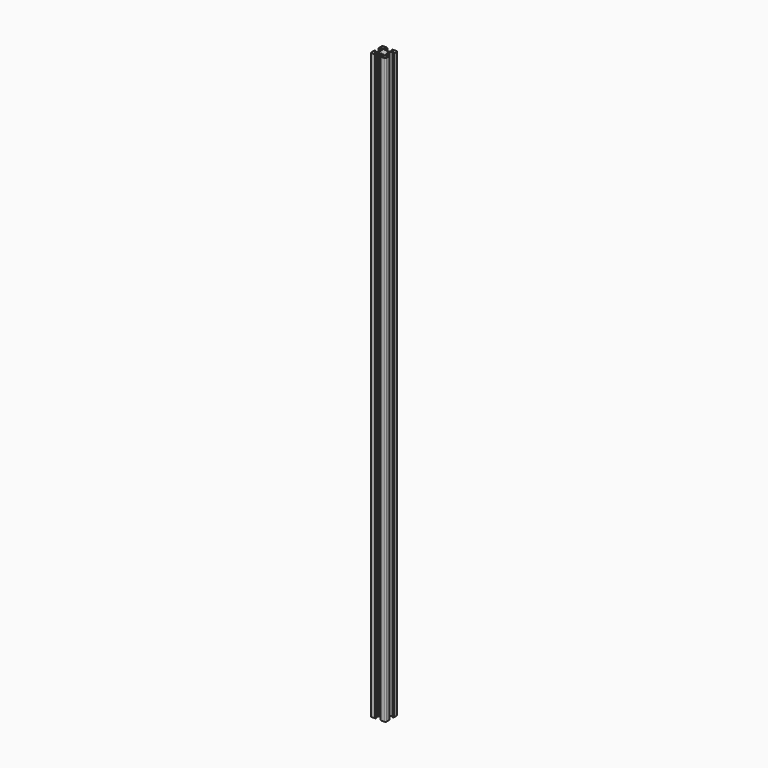
from build123d import *

# Parameters (mm, degrees)
PAD011_DEPTH    = 767.5
POCKET028_DEPTH = 767.501


with BuildPart() as pad011:
    # Sketch040 → Pad011 (new body)
    with BuildSketch(Plane(origin=(1.5, 0, 0), x_dir=(1, 0, 0), z_dir=(0, 0, 1))):
        with BuildLine():
            Line((0, 20), (4.65, 20))
            ThreePointArc((4.85, 19.8), (4.791421, 19.941421), (4.65, 20))
            Line((4.85, 19.8), (4.85, 19.5))
            Line((4.85, 19.5), (5.2, 19.5))
            ThreePointArc((5.4, 19.3), (5.341421, 19.441421), (5.2, 19.5))
            Line((5.4, 19.3), (5.4, 19))
            ThreePointArc((4.9, 18.5), (5.253553, 18.646446), (5.4, 19))
            Line((4.9, 18.5), (2.999999, 18.5))
            ThreePointArc((2.999999, 18.5), (2.646446, 18.353553), (2.499999, 18))
            Line((2.499999, 18), (2.499999, 17.267767))
            ThreePointArc((2.499999, 17.267767), (2.53806, 17.076425), (2.646446, 16.914213))
            Line((2.646446, 16.914213), (4.914213, 14.646447))
            ThreePointArc((4.914213, 14.646447), (5.076424, 14.53806), (5.267766, 14.5))
            Line((5.267766, 14.5), (7.54641, 14.5))
            ThreePointArc((7.64641, 14.473205), (7.598173, 14.493185), (7.54641, 14.5))
            Line((7.64641, 14.473205), (8.4, 14.03812))
            ThreePointArc((8.4, 14.03812), (8.5, 14.011325), (8.6, 14.03812))
            Line((8.6, 14.03812), (9.35359, 14.473205))
            ThreePointArc((9.45359, 14.5), (9.401827, 14.493185), (9.35359, 14.473205))
            Line((9.45359, 14.5), (11.732234, 14.5))
            ThreePointArc((11.732234, 14.5), (11.923576, 14.53806), (12.085787, 14.646447))
            Line((12.085787, 14.646447), (14.353554, 16.914213))
            ThreePointArc((14.353554, 16.914213), (14.46194, 17.076425), (14.500001, 17.267767))
            Line((14.500001, 17.267767), (14.500001, 18))
            ThreePointArc((14.500001, 18), (14.353554, 18.353553), (14.000001, 18.5))
            Line((14.000001, 18.5), (12.1, 18.5))
            ThreePointArc((11.6, 19), (11.746447, 18.646446), (12.1, 18.5))
            Line((11.6, 19), (11.6, 19.3))
            ThreePointArc((11.8, 19.5), (11.658579, 19.441421), (11.6, 19.3))
            Line((11.8, 19.5), (12.15, 19.5))
            Line((12.15, 19.5), (12.15, 19.8))
            ThreePointArc((12.35, 20), (12.208579, 19.941421), (12.15, 19.8))
            Line((12.35, 20), (17, 20))
            ThreePointArc((18.5, 18.5), (18.06066, 19.56066), (17, 20))
            Line((18.5, 18.5), (18.5, 13.85))
            ThreePointArc((18.3, 13.65), (18.441421, 13.708578), (18.5, 13.85))
            Line((18.3, 13.65), (18, 13.65))
            Line((18, 13.65), (18, 13.3))
            ThreePointArc((17.8, 13.1), (17.941421, 13.158579), (18, 13.3))
            Line((17.8, 13.1), (17.5, 13.1))
            ThreePointArc((17, 13.6), (17.146446, 13.246447), (17.5, 13.1))
            Line((17, 13.6), (17, 15.5))
            ThreePointArc((17, 15.5), (16.853553, 15.853553), (16.5, 16))
            Line((16.5, 16), (15.767767, 16))
            ThreePointArc((15.767767, 16), (15.576425, 15.961939), (15.414213, 15.853553))
            Line((15.414213, 15.853553), (13.146446, 13.585786))
            ThreePointArc((13.146446, 13.585786), (13.03806, 13.423574), (13, 13.232233))
            Line((13, 13.232233), (13, 10.953589))
            ThreePointArc((12.973205, 10.853589), (12.993185, 10.901825), (13, 10.953589))
            Line((12.973205, 10.853589), (12.53812, 10.1))
            ThreePointArc((12.53812, 10.1), (12.511325, 10), (12.53812, 9.9))
            Line((12.53812, 9.9), (12.973205, 9.146411))
            ThreePointArc((13, 9.046411), (12.993185, 9.098175), (12.973205, 9.146411))
            Line((13, 9.046411), (13, 6.767767))
            ThreePointArc((13, 6.767767), (13.03806, 6.576426), (13.146446, 6.414214))
            Line((13.146446, 6.414214), (15.414213, 4.146447))
            ThreePointArc((15.414213, 4.146447), (15.576425, 4.038061), (15.767767, 4))
            Line((15.767767, 4), (16.5, 4))
            ThreePointArc((16.5, 4), (16.853553, 4.146447), (17, 4.5))
            Line((17, 4.5), (17, 6.4))
            ThreePointArc((17.5, 6.9), (17.146446, 6.753553), (17, 6.4))
            Line((17.5, 6.9), (17.8, 6.9))
            ThreePointArc((18, 6.7), (17.941421, 6.841421), (17.8, 6.9))
            Line((18, 6.7), (18, 6.35))
            Line((18, 6.35), (18.3, 6.35))
            ThreePointArc((18.5, 6.15), (18.441421, 6.291422), (18.3, 6.35))
            Line((18.5, 6.15), (18.5, 1.5))
            ThreePointArc((17, 0), (18.06066, 0.43934), (18.5, 1.5))
            Line((17, 0), (12.35, 0))
            ThreePointArc((12.15, 0.2), (12.208579, 0.058579), (12.35, 0))
            Line((12.15, 0.2), (12.15, 0.5))
            Line((12.15, 0.5), (11.8, 0.5))
            ThreePointArc((11.6, 0.7), (11.658579, 0.558579), (11.8, 0.5))
            Line((11.6, 0.7), (11.6, 1))
            ThreePointArc((12.1, 1.5), (11.746447, 1.353554), (11.6, 1))
            Line((12.1, 1.5), (14.000001, 1.5))
            ThreePointArc((14.000001, 1.5), (14.353554, 1.646447), (14.500001, 2))
            Line((14.500001, 2), (14.500001, 2.732233))
            ThreePointArc((14.500001, 2.732233), (14.46194, 2.923575), (14.353554, 3.085787))
            Line((14.353554, 3.085787), (12.085787, 5.353553))
            ThreePointArc((12.085787, 5.353553), (11.923576, 5.46194), (11.732234, 5.5))
            Line((11.732234, 5.5), (9.45359, 5.5))
            ThreePointArc((9.35359, 5.526795), (9.401827, 5.506815), (9.45359, 5.5))
            Line((9.35359, 5.526795), (8.6, 5.96188))
            ThreePointArc((8.6, 5.96188), (8.5, 5.988675), (8.4, 5.96188))
            Line((8.4, 5.96188), (7.64641, 5.526795))
            ThreePointArc((7.54641, 5.5), (7.598173, 5.506815), (7.64641, 5.526795))
            Line((7.54641, 5.5), (5.267766, 5.5))
            ThreePointArc((5.267766, 5.5), (5.076424, 5.46194), (4.914213, 5.353553))
            Line((4.914213, 5.353553), (2.646446, 3.085787))
            ThreePointArc((2.646446, 3.085787), (2.53806, 2.923575), (2.499999, 2.732233))
            Line((2.499999, 2.732233), (2.499999, 2))
            ThreePointArc((2.499999, 2), (2.646446, 1.646447), (2.999999, 1.5))
            Line((2.999999, 1.5), (4.9, 1.5))
            ThreePointArc((5.4, 1), (5.253553, 1.353554), (4.9, 1.5))
            Line((5.4, 1), (5.4, 0.7))
            ThreePointArc((5.2, 0.5), (5.341421, 0.558579), (5.4, 0.7))
            Line((5.2, 0.5), (4.85, 0.5))
            Line((4.85, 0.5), (4.85, 0.2))
            ThreePointArc((4.65, 0), (4.791421, 0.058579), (4.85, 0.2))
            Line((4.65, 0), (0, 0))
            ThreePointArc((-1.5, 1.5), (-1.06066, 0.43934), (0, 0))
            Line((-1.5, 1.5), (-1.5, 6.15))
            ThreePointArc((-1.3, 6.35), (-1.441421, 6.291422), (-1.5, 6.15))
            Line((-1.3, 6.35), (-1, 6.35))
            Line((-1, 6.35), (-1, 6.7))
            ThreePointArc((-0.8, 6.9), (-0.941421, 6.841421), (-1, 6.7))
            Line((-0.8, 6.9), (-0.5, 6.9))
            ThreePointArc((0, 6.4), (-0.146446, 6.753553), (-0.5, 6.9))
            Line((0, 6.4), (0, 4.5))
            ThreePointArc((0, 4.5), (0.146447, 4.146447), (0.5, 4))
            Line((0.5, 4), (1.232233, 4))
            ThreePointArc((1.232233, 4), (1.423575, 4.038061), (1.585787, 4.146447))
            Line((1.585787, 4.146447), (3.853554, 6.414214))
            ThreePointArc((3.853554, 6.414214), (3.96194, 6.576426), (4, 6.767767))
            Line((4, 6.767767), (4, 9.046411))
            ThreePointArc((4.026795, 9.146411), (4.006815, 9.098175), (4, 9.046411))
            Line((4.026795, 9.146411), (4.46188, 9.9))
            ThreePointArc((4.46188, 9.9), (4.488675, 10), (4.46188, 10.1))
            Line((4.46188, 10.1), (4.026795, 10.853589))
            ThreePointArc((4, 10.953589), (4.006815, 10.901825), (4.026795, 10.853589))
            Line((4, 10.953589), (4, 13.232233))
            ThreePointArc((4, 13.232233), (3.96194, 13.423574), (3.853554, 13.585786))
            Line((3.853554, 13.585786), (1.585787, 15.853553))
            ThreePointArc((1.585787, 15.853553), (1.423575, 15.961939), (1.232233, 16))
            Line((1.232233, 16), (0.5, 16))
            ThreePointArc((0.5, 16), (0.146447, 15.853553), (0, 15.5))
            Line((0, 15.5), (0, 13.6))
            ThreePointArc((-0.5, 13.1), (-0.146446, 13.246447), (0, 13.6))
            Line((-0.5, 13.1), (-0.8, 13.1))
            ThreePointArc((-1, 13.3), (-0.941421, 13.158579), (-0.8, 13.1))
            Line((-1, 13.3), (-1, 13.65))
            Line((-1, 13.65), (-1.3, 13.65))
            ThreePointArc((-1.5, 13.85), (-1.441421, 13.708578), (-1.3, 13.65))
            Line((-1.5, 13.85), (-1.5, 18.5))
            ThreePointArc((0, 20), (-1.06066, 19.56066), (-1.5, 18.5))
        make_face()
    extrude(amount=PAD011_DEPTH)


with BuildPart() as pocket028:
    # Pocket028 base: copy of Pad011
    add(pad011.part)

    # Sketch041 → Pocket028 (cut, through all)
    with BuildSketch(Plane(origin=(1.5, 0, 767.5), x_dir=(1, 0, 0), z_dir=(0, 0, 1))):
        with BuildLine():
            ThreePointArc((6.586105, 12.989641), (5.988263, 12.50841), (5.507825, 11.909931))
            Line((6.054705, 11.258185), (5.507825, 11.909931))
            ThreePointArc((6.054705, 11.258185), (5.75, 10), (6.054705, 8.741815))
            Line((5.507825, 8.090069), (6.054705, 8.741815))
            ThreePointArc((5.507825, 8.090069), (5.988263, 7.49159), (6.586105, 7.010359))
            Line((7.241815, 7.554705), (6.586105, 7.010359))
            ThreePointArc((7.241815, 7.554705), (8.5, 7.25), (9.758185, 7.554705))
            Line((10.413895, 7.010359), (9.758185, 7.554705))
            ThreePointArc((10.413895, 7.010359), (11.011737, 7.49159), (11.492175, 8.090069))
            Line((10.945295, 8.741815), (11.492175, 8.090069))
            ThreePointArc((10.945295, 8.741815), (11.25, 10), (10.945295, 11.258185))
            Line((11.492175, 11.909931), (10.945295, 11.258185))
            ThreePointArc((11.492175, 11.909931), (11.011737, 12.50841), (10.413895, 12.989641))
            Line((9.758185, 12.445295), (10.413895, 12.989641))
            ThreePointArc((9.758185, 12.445295), (8.5, 12.75), (7.241815, 12.445295))
            Line((6.586105, 12.989641), (7.241815, 12.445295))
        make_face()
    extrude(amount=-POCKET028_DEPTH, mode=Mode.SUBTRACT)


with BuildPart() as fusion028:
    # Fusion028 base: copy of Pad011
    add(pad011.part)

    # Fusion028: union Pocket028
    add(pocket028.part)


with BuildPart() as fusion028_1:
    # Fusion028 placement: moved
    add(fusion028.part.moved(Location((-173, -177, -544.5))))


solid = fusion028_1.part
